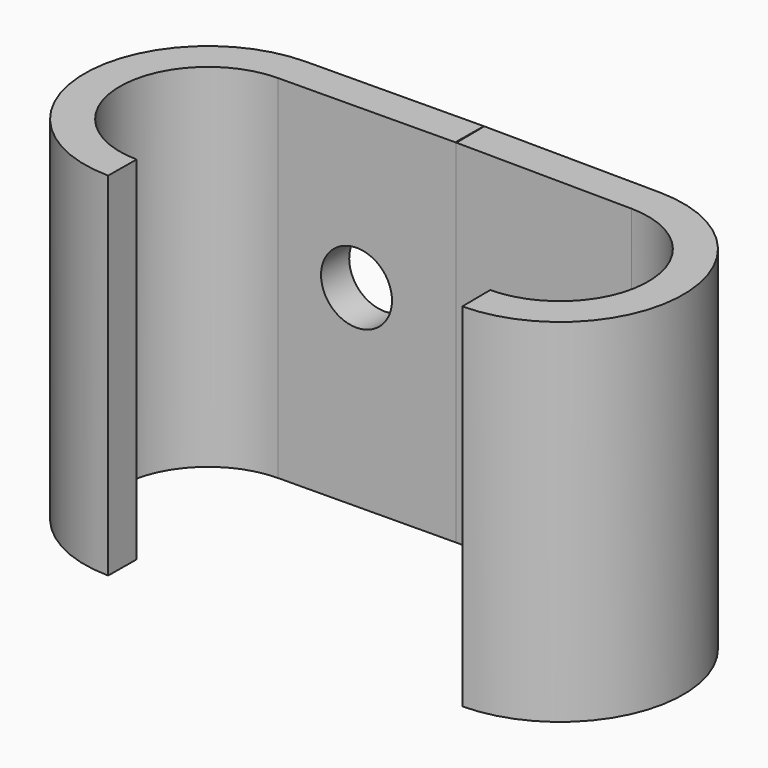
from build123d import *

# Parameters (mm, degrees)
F1_DEPTH = 50
F4_D     = 10
F4_2_D   = 10


with BuildPart() as f1:
    # F0 (on Top) → F1 (new body)
    with BuildSketch(Plane.XY):
        with BuildLine():
            ThreePointArc((25.099999, 9.919318), (37.511414, -2.609092), (25.099999, -15.137502))
            Line((25.099999, -15.137502), (25.146909, -20.137282))
            ThreePointArc((25.146909, -20.137282), (42.511414, -2.609092), (25.146909, 14.919098))
            Line((25.146909, 14.919098), (0.031496, 15.154741))
            Line((0.031496, 15.154741), (0.0784, 10.155552))
            Line((0.0784, 10.155552), (0, 10.154816))
            Line((0, 10.154816), (25.099999, 9.919318))
        make_face()
    extrude(amount=F1_DEPTH)

    # F4 (through all)
    with Locations(Plane.XZ):
        with Locations((-14.008855, 27.345683), (14.008855, 27.345683)):
            Hole(F4_D / 2)


with BuildPart() as f2_1:
    # F2: instance of F1
    add(f1.part.mirror(Plane.YZ))

    # F4#2 (through all)
    with Locations(Plane.XZ):
        with Locations((-14.008855, 27.345683), (14.008855, 27.345683)):
            Hole(F4_2_D / 2)


solid = Compound([f1.part, f2_1.part])
